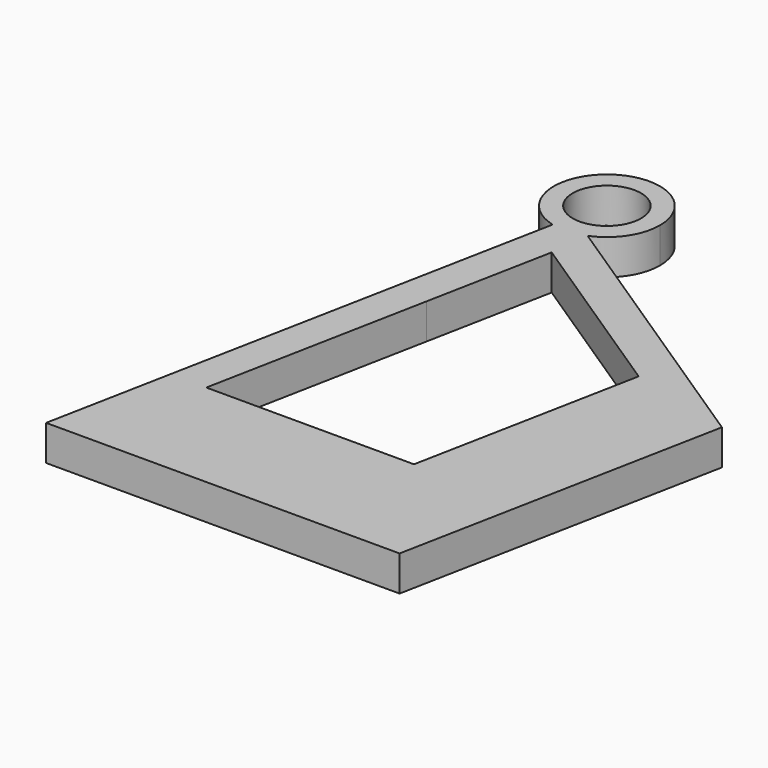
from build123d import *

# Parameters (mm, degrees)
F1_DEPTH = 3
F2_D     = 5.8
F2_DEPTH = 3
F2_TIP   = 1.7424957952


with BuildPart() as f1:
    # F0 (on Top) → F1 (new body)
    with BuildSketch(Plane.XY):
        with BuildLine():
            ThreePointArc((2.4641827419, 32.7869937197), (1.2508461254, 32.4804226982), (0, 32.5198626147))
            Line((0, 32.5198626147), (0, 18.7683064789))
            Line((0, 18.7683064789), (2.0859143711, 29.4431521909))
            Line((2.0859143711, 29.4431521909), (17.7015492515, 19.1490593441))
            Line((17.7015492515, 19.1490593441), (13.9597342261, 0))
            Line((13.9597342261, 0), (0, 0))
            Line((0, 0), (0, -10.5885749888))
            Line((0, -10.5885749888), (21.2067912519, -10.5885749888))
            Line((21.2067912519, -10.5885749888), (26.5765645376, 16.8917003894))
            Line((26.5765645376, 16.8917003894), (2.4641827419, 32.7869937197))
        make_face()
        with BuildLine():
            Line((0, 18.7683064789), (0, 32.5198626147))
            ThreePointArc((0, 32.5198626147), (-0.178141111, 32.5543418855), (-0.3547474317, 32.5959746011))
            Line((-0.3547474317, 32.5959746011), (-8.7932087481, -10.5885749888))
            Line((-8.7932087481, -10.5885749888), (0, -10.5885749888))
            Line((0, -10.5885749888), (0, 0))
            Line((0, 0), (-3.6674141493, 0))
            Line((-3.6674141493, 0), (0, 18.7683064789))
        make_face()
        with BuildLine():
            Line((-0.3547474317, 32.5959746011), (0, 34.4114250112))
            Line((0, 34.4114250112), (2.4641827419, 32.7869937197))
            ThreePointArc((2.4641827419, 32.7869937197), (4.5003263885, 34.443479167), (5.2658624981, 36.9542120184))
            ThreePointArc((5.2658624981, 36.9542120184), (-1.9916051188, 40.510385853), (-0.3547474317, 32.5959746011))
        make_face()
        with BuildLine():
            Line((2.4641827419, 32.7869937197), (0, 34.4114250112))
            Line((0, 34.4114250112), (0, 32.5198626147))
            ThreePointArc((0, 32.5198626147), (1.2508461254, 32.4804226982), (2.4641827419, 32.7869937197))
        make_face()
        with BuildLine():
            Line((0, 32.5198626147), (0, 34.4114250112))
            Line((0, 34.4114250112), (-0.3547474317, 32.5959746011))
            ThreePointArc((-0.3547474317, 32.5959746011), (-0.178141111, 32.5543418855), (0, 32.5198626147))
        make_face()
    extrude(amount=F1_DEPTH)

    # F2
    with Locations(Plane(origin=(0, 0, 0), x_dir=(1, 0, 0), z_dir=(0, 0, -1))):
        with Locations((0.7658624981, -36.9542120184)):
            Hole(F2_D / 2, depth=F2_DEPTH)
            with Locations((0, 0, -(F2_DEPTH + F2_TIP / 2))):  # 118° drill point
                Cone(0, F2_D / 2, F2_TIP, mode=Mode.SUBTRACT)


solid = f1.part
